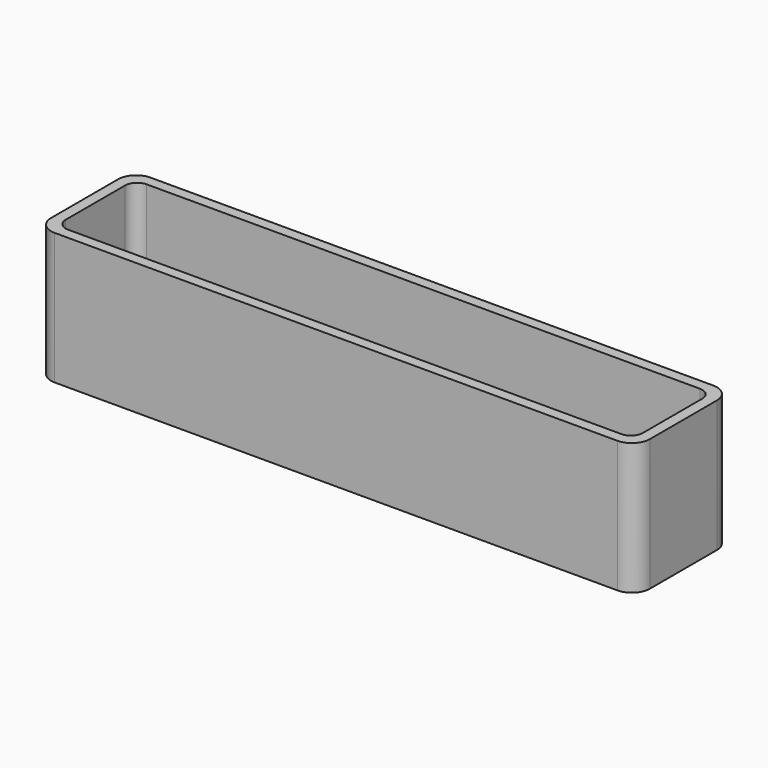
from build123d import *

# Parameters (mm, degrees)
F0_W     = 127
F0_H     = 25.4
F1_DEPTH = 27.94
F2_W     = 122.428
F2_H     = 20.828
F3_DEPTH = 25.4
F4_R     = 2.54
F5_R     = 3.81


with BuildPart() as f1:
    # F0 (on Top) → F1 (new body)
    with BuildSketch(Plane.XY):
        Rectangle(F0_W, F0_H)
    extrude(amount=F1_DEPTH)

    # F2 (on face) → F3 (cut)
    with BuildSketch(Plane.XY.offset(27.94)):
        Rectangle(F2_W, F2_H)
    extrude(amount=-F3_DEPTH, mode=Mode.SUBTRACT)

    # F4
    f4_edges = [f1.edges().sort_by_distance(p)[0] for p in [
        (0, 10.414, 2.54),
        (-61.214, 0, 2.54),
        (0, -10.414, 2.54),
        (61.214, 0, 2.54),
        (-61.214, 10.414, 15.24),
        (61.214, 10.414, 15.24),
        (61.214, -10.414, 15.24),
        (-61.214, -10.414, 15.24),
    ]]
    fillet(f4_edges, radius=F4_R)

    # F5
    f5_edges = [f1.edges().sort_by_distance(p)[0] for p in [
        (-63.5, -12.7, 13.97),
        (-63.5, 12.7, 13.97),
        (63.5, 12.7, 13.97),
        (63.5, -12.7, 13.97),
    ]]
    fillet(f5_edges, radius=F5_R)


solid = f1.part
